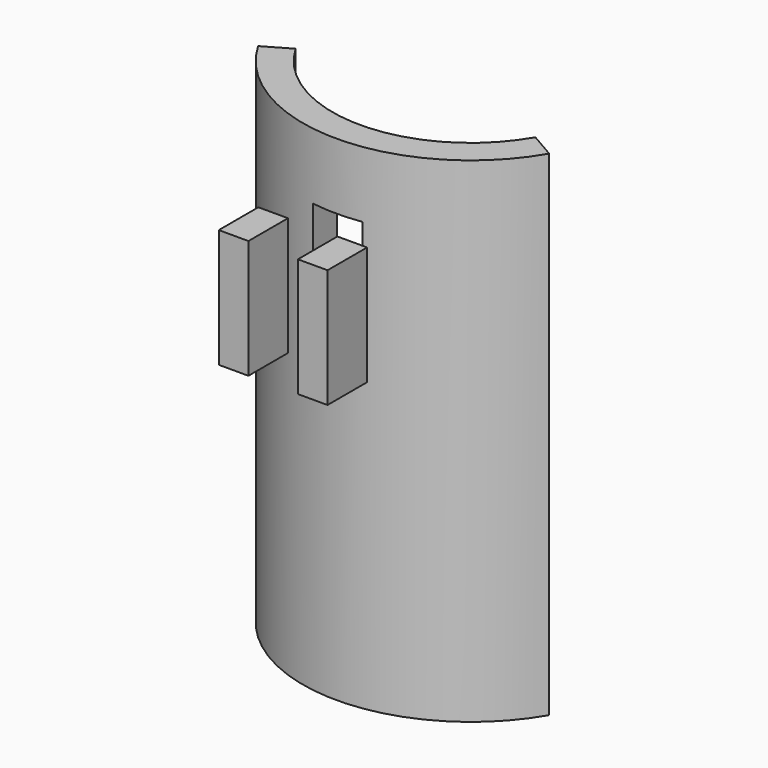
from build123d import *

# Parameters (mm, degrees)
F1_DEPTH = 50
F2_W     = 5
F2_H     = 12
F3_DEPTH = 25
F4_START = 20
F2_W_2   = 3
F4_DEPTH = 5


with BuildPart() as f1:
    # F0 (on Top) → F1 (new body)
    with BuildSketch(Plane.XY):
        with BuildLine():
            ThreePointArc((12.124355653, -7), (0, -14), (-12.124355653, -7))
            Line((-12.124355653, -7), (-14.7224318643, -8.5))
            ThreePointArc((-14.7224318643, -8.5), (0, -17), (14.7224318643, -8.5))
            Line((14.7224318643, -8.5), (12.124355653, -7))
        make_face()
    extrude(amount=-F1_DEPTH)

    # F2 (on Front) → F3 (cut)
    with BuildSketch(Plane.XZ):
        with Locations((0, -12.6776543708)):
            Rectangle(F2_W, F2_H)
    extrude(amount=F3_DEPTH, mode=Mode.SUBTRACT)


with BuildPart() as f4:
    # F2 (on Front) → F4 (new body)
    with BuildSketch(Plane.XZ.offset(F4_START)):
        with Locations((4, -12.6776543708)):
            Rectangle(F2_W_2, F2_H)
    extrude(amount=F4_DEPTH)


with BuildPart() as f4b:
    # F2 (on Front) → F4, piece 2 (new body)
    with BuildSketch(Plane.XZ.offset(F4_START)):
        with Locations((-4, -12.6776543708)):
            Rectangle(F2_W_2, F2_H)
    extrude(amount=F4_DEPTH)


solid = Compound([f1.part, f4.part, f4b.part])
